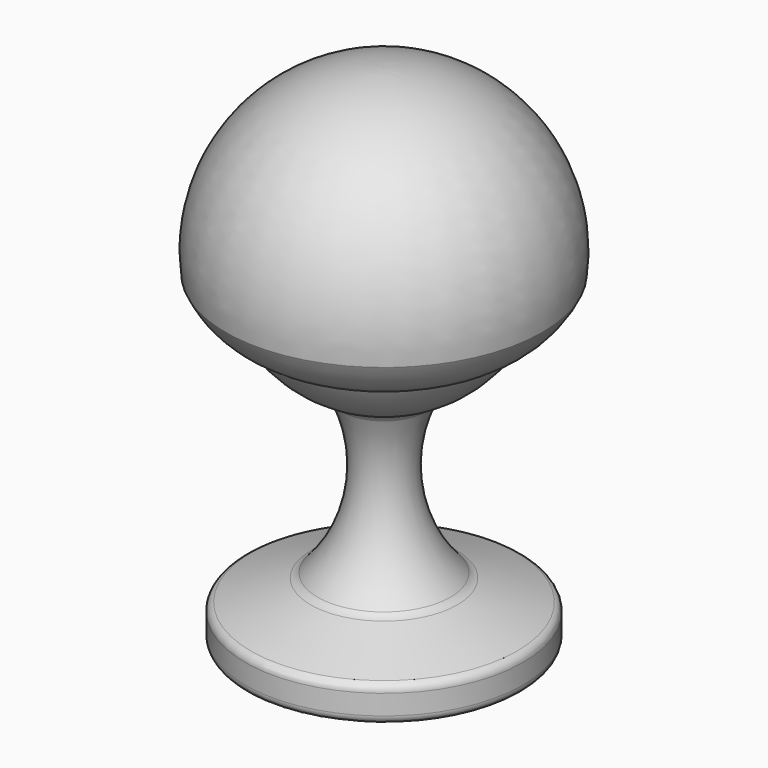
from build123d import *

# Parameters (mm, degrees)
F2_R = 0.5


with BuildPart() as f1:
    # F0 (on Front) → F1 (revolve)
    with BuildSketch(Plane.XZ):
        with BuildLine():
            ThreePointArc((2.434386, 12.561022), (2.644766, 12.852559), (2.944656, 13.050851))
            ThreePointArc((2.944656, 13.050851), (7.490828, 19.577796), (3.611491, 26.521818))
            ThreePointArc((3.611491, 26.521818), (3.378526, 26.614004), (3.129959, 26.645389))
            Line((3.129959, 26.645389), (0, 26.645389))
            Line((0, 26.645389), (0, 2.2))
            Line((0, 2.2), (4.2, 2.2))
            Line((4.2, 2.2), (4.2, 0))
            Line((4.2, 0), (7.5, 0))
            ThreePointArc((7.5, 0), (7.853553, 0.146447), (8, 0.5))
            Line((8, 0.5), (8, 1.647139))
            ThreePointArc((8, 1.647139), (7.908515, 1.935437), (7.667537, 2.118235))
            Line((7.667537, 2.118235), (4.222254, 3.343492))
            ThreePointArc((4.222254, 3.343492), (4.00948, 3.449106), (3.82762, 3.601926))
            ThreePointArc((3.82762, 3.601926), (1.74869, 7.86651), (2.434386, 12.561022))
        make_face()
        with BuildLine():
            Line((0, 29.148604), (0, 27.948604))
            ThreePointArc((0, 27.948604), (6.359259, 24.802451), (7.716717, 17.838562))
            ThreePointArc((7.716717, 17.838562), (7.306935, 16.947624), (6.631728, 16.236438))
            ThreePointArc((6.631728, 16.236438), (8.109441, 17.274031), (9.123898, 18.767721))
            ThreePointArc((9.123898, 18.767721), (6.910287, 26.022148), (0, 29.148604))
        make_face()
    revolve(axis=Axis((0, 0, 23.355162), (0, 0, -1)))

    # F2
    f2_edges = [f1.edges().sort_by_distance(p)[0] for p in [
        (-4.2, 0, 0),
    ]]
    fillet(f2_edges, radius=F2_R)


solid = f1.part
